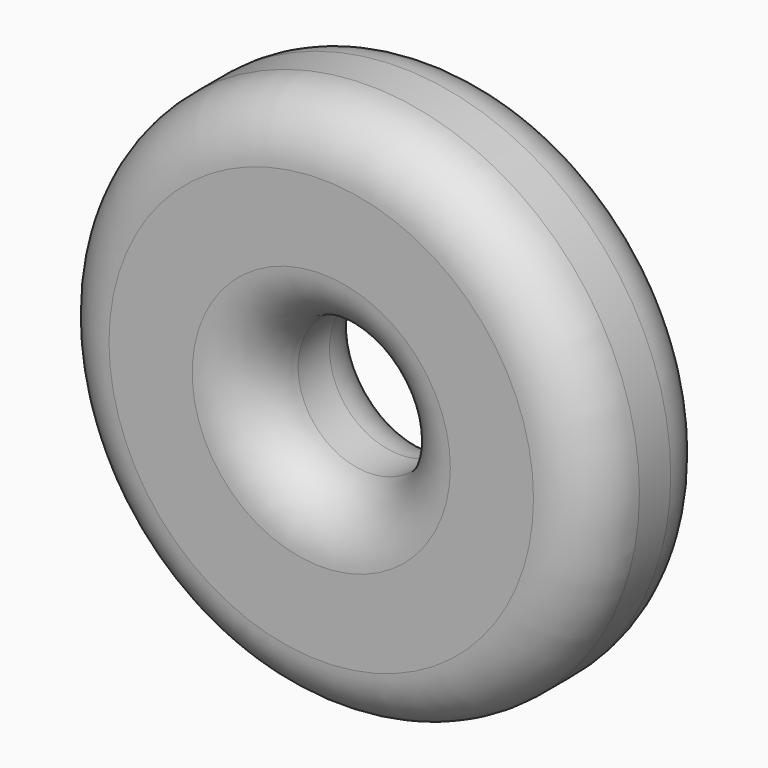
from build123d import *

# Parameters (mm, degrees)
F0_R     = 35.118503
F1_DEPTH = 20.32
F2_R     = 9.100995
F3_DEPTH = 20.32
F4_R     = 7.62


with BuildPart() as f1:
    # F0 (on Front) → F1 (new body)
    with BuildSketch(Plane.XZ):
        Circle(F0_R)
    extrude(amount=F1_DEPTH)

    # F2 (on face) → F3 (cut)
    with BuildSketch(Plane.XZ.offset(20.32)):
        Circle(F2_R)
    extrude(amount=-F3_DEPTH, mode=Mode.SUBTRACT)

    # F4
    f4_edges = [f1.edges().sort_by_distance(p)[0] for p in [
        (-35.118503, 0, 0),
        (-35.118503, -20.32, 0),
        (-9.100995, -20.32, 0),
        (-9.100995, 0, 0),
    ]]
    fillet(f4_edges, radius=F4_R)


solid = f1.part
